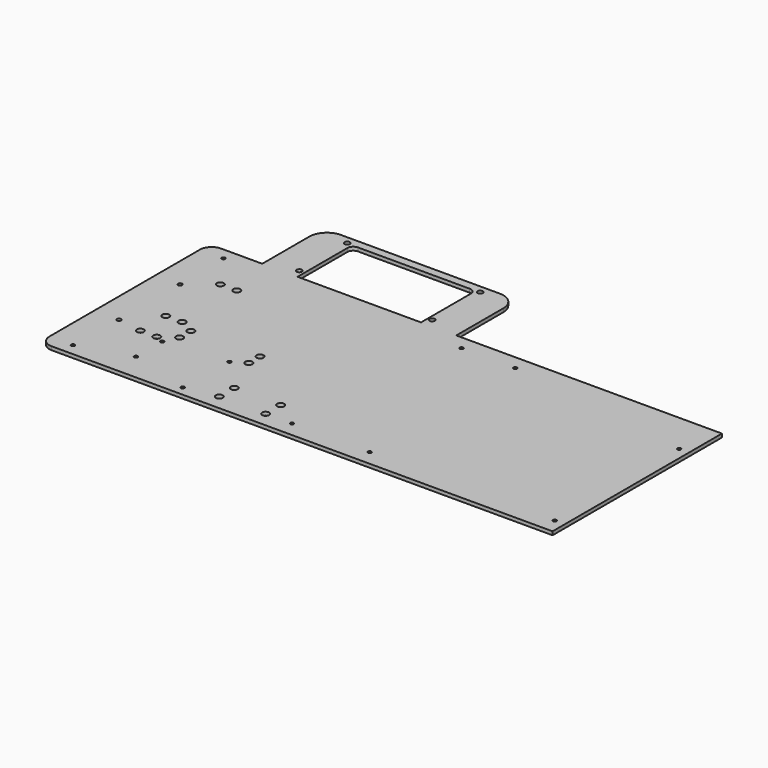
from build123d import *

# Parameters (mm, degrees)
F0_R     = 2.25
F0_R_2   = 1.5
F0_R_3   = 3
F0_W     = 71.6
F0_H     = 55.3
F0_W_2   = 30
F0_H_2   = 130
F0_W_3   = 243.84
F0_H_3   = 173
F0_R_4   = 1.75
F1_DEPTH = 3
F2_R     = 10


with BuildPart() as f1:
    # F0 (on Top) → F1 (new body)
    with BuildSketch(Plane.XY):
        with BuildLine():
            Line((-122.12405, 121.963614), (-122.12405, 71.963614))
            Line((-122.12405, 71.963614), (-106.12405, 71.963614))
            Line((-106.12405, 71.963614), (-92.12405, 71.963614))
            Line((-92.12405, 71.963614), (-92.12405, 124.963614))
            ThreePointArc((-92.12405, 124.963614), (-90.659584, 128.499148), (-87.12405, 129.963614))
            Line((-87.12405, 129.963614), (7.87595, 129.963614))
            ThreePointArc((7.87595, 129.963614), (11.411483, 128.499148), (12.87595, 124.963614))
            Line((12.87595, 124.963614), (12.87595, 71.963614))
            Line((12.87595, 71.963614), (13.468782, 71.963614))
            Line((13.468782, 71.963614), (20.87595, 71.963614))
            Line((20.87595, 71.963614), (42.87595, 71.963614))
            Line((42.87595, 71.963614), (42.87595, 121.963614))
            ThreePointArc((42.87595, 121.963614), (38.482551, 132.570215), (27.87595, 136.963614))
            Line((27.87595, 136.963614), (-106.12405, 136.963614))
            Line((-106.12405, 136.963614), (-107.12405, 136.963614))
            ThreePointArc((-107.12405, 136.963614), (-117.730652, 132.570215), (-122.12405, 121.963614))
        make_face()
        with Locations((-96.62405, 79.463614)):
            Circle(F0_R, mode=Mode.SUBTRACT)
        with Locations((-96.628793, 130.463614)):
            Circle(F0_R, mode=Mode.SUBTRACT)
        with Locations((16.37595, 79.463614)):
            Circle(F0_R, mode=Mode.SUBTRACT)
        with Locations((16.371207, 130.463614)):
            Circle(F0_R, mode=Mode.SUBTRACT)
        with BuildLine():
            Line((-92.12405, 71.963614), (-106.12405, 71.963614))
            Line((-106.12405, 71.963614), (-106.12405, -30.036386))
            Line((-106.12405, -30.036386), (-40.182003, -30.036386))
            ThreePointArc((-40.182003, -30.036386), (-39.988923, -30.030167), (-39.795843, -30.036386))
            Line((-39.795843, -30.036386), (20.87595, -30.036386))
            Line((20.87595, -30.036386), (20.87595, 71.963614))
            Line((20.87595, 71.963614), (13.468782, 71.963614))
            Line((13.468782, 71.963614), (12.87595, 71.963614))
            Line((12.87595, 71.963614), (-84.644211, 71.963614))
            Line((-84.644211, 71.963614), (-92.12405, 71.963614))
        make_face()
        with BuildLine():
            Line((-122.12405, 71.963614), (-167.12405, 71.963614))
            Line((-167.12405, 71.963614), (-167.12405, -108.036386))
            Line((-167.12405, -108.036386), (268.71595, -108.036386))
            Line((268.71595, -108.036386), (268.71595, 71.963614))
            Line((268.71595, 71.963614), (42.87595, 71.963614))
            Line((42.87595, 71.963614), (20.87595, 71.963614))
            Line((20.87595, 71.963614), (20.87595, -30.036386))
            Line((20.87595, -30.036386), (-39.795843, -30.036386))
            ThreePointArc((-39.795843, -30.036386), (-37.800403, -30.978246), (-36.988923, -33.030167))
            ThreePointArc((-36.988923, -33.030167), (-42.040844, -35.218687), (-40.182003, -30.036386))
            Line((-40.182003, -30.036386), (-106.12405, -30.036386))
            Line((-106.12405, -30.036386), (-106.12405, 71.963614))
            Line((-106.12405, 71.963614), (-122.12405, 71.963614))
        make_face()
        with Locations((-147.12405, -98.036386)):
            Circle(F0_R_2, mode=Mode.SUBTRACT)
        with Locations((-125.217071, -53.767648)):
            Circle(F0_R_3, mode=Mode.SUBTRACT)
        with Locations((-70.802655, -75.892347)):
            Rectangle(F0_W, F0_H, mode=Mode.SUBTRACT)
        with Locations((-111.217071, -53.785172)):
            Circle(F0_R_3, mode=Mode.SUBTRACT)
        with Locations((-25.069975, -95.017396)):
            Circle(F0_R_3, mode=Mode.SUBTRACT)
        with Locations((-25.108787, -79.017396)):
            Circle(F0_R_3, mode=Mode.SUBTRACT)
        with Locations((14.424137, -95.05833)):
            Circle(F0_R_3, mode=Mode.SUBTRACT)
        with Locations((14.385325, -79.05833)):
            Circle(F0_R_3, mode=Mode.SUBTRACT)
        with Locations((-125.30884, -26.59335)):
            Circle(F0_R_3, mode=Mode.SUBTRACT)
        with Locations((-98.695597, -45.11559)):
            Circle(F0_R_3, mode=Mode.SUBTRACT)
        with Locations((-98.73441, -33.11559)):
            Circle(F0_R_3, mode=Mode.SUBTRACT)
        with Locations((-111.30884, -26.610874)):
            Circle(F0_R_3, mode=Mode.SUBTRACT)
        with Locations((-146.12405, -15.342006)):
            Rectangle(F0_W_2, F0_H_2, mode=Mode.SUBTRACT)
        with Locations((-39.950111, -45.030167)):
            Circle(F0_R_3, mode=Mode.SUBTRACT)
        with Locations((144.79595, -16.536386)):
            Rectangle(F0_W_3, F0_H_3, mode=Mode.SUBTRACT)
        with Locations((-125.346347, 31.441569)):
            Circle(F0_R_3, mode=Mode.SUBTRACT)
        with Locations((-111.346347, 31.424045)):
            Circle(F0_R_3, mode=Mode.SUBTRACT)
        with Locations((-147.12405, 61.963614)):
            Circle(F0_R_2, mode=Mode.SUBTRACT)
        with Locations((-146.12405, -15.342006)):
            Rectangle(F0_W_2, F0_H_2)
        with Locations((-146.12405, -50.342006)):
            Circle(F0_R_4, mode=Mode.SUBTRACT)
        with Locations((-146.12405, 14.657994)):
            Circle(F0_R_4, mode=Mode.SUBTRACT)
        with Locations((-70.802655, -75.892347)):
            Rectangle(F0_W, F0_H)
        with Locations((-104.102655, -84.742347)):
            Circle(F0_R_2, mode=Mode.SUBTRACT)
        with Locations((-104.102655, -56.842347)):
            Circle(F0_R_2, mode=Mode.SUBTRACT)
        with Locations((-52.302655, -99.942347)):
            Circle(F0_R_2, mode=Mode.SUBTRACT)
        with Locations((-51.002655, -51.742347)):
            Circle(F0_R_2, mode=Mode.SUBTRACT)
        with Locations((144.79595, -16.536386)):
            Rectangle(F0_W_3, F0_H_3)
        with Locations((36.75595, -95.036386)):
            Circle(F0_R_2, mode=Mode.SUBTRACT)
        with Locations((102.79595, -95.036386)):
            Circle(F0_R_2, mode=Mode.SUBTRACT)
        with Locations((260.27595, -95.036386)):
            Circle(F0_R_2, mode=Mode.SUBTRACT)
        with Locations((57.07595, 59.803614)):
            Circle(F0_R_2, mode=Mode.SUBTRACT)
        with Locations((102.79595, 59.803614)):
            Circle(F0_R_2, mode=Mode.SUBTRACT)
        with Locations((260.27595, 36.953614)):
            Circle(F0_R_2, mode=Mode.SUBTRACT)
    extrude(amount=F1_DEPTH)

    # F2
    f2_edges = [f1.edges().sort_by_distance(p)[0] for p in [
        (-167.12405, 71.963614, 1.5),
        (-167.12405, -108.036386, 1.5),
    ]]
    fillet(f2_edges, radius=F2_R)


solid = f1.part
